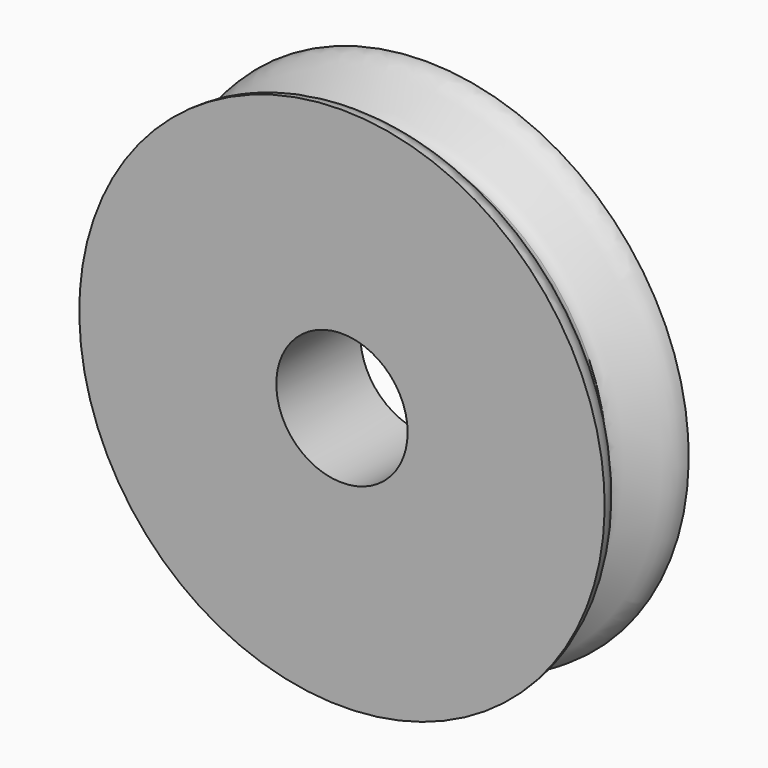
from build123d import *

# Parameters (mm, degrees)
F0_R     = 20
F0_R_2   = 5
F1_DEPTH = 4


with BuildPart() as f1:
    # F0 (on Front) → F1 (new body, symmetric)
    with BuildSketch(Plane.XZ):
        Circle(F0_R)
        Circle(F0_R_2, mode=Mode.SUBTRACT)
        Circle(F0_R)
        Circle(F0_R_2, mode=Mode.SUBTRACT)
    extrude(amount=F1_DEPTH, both=True)

    # F2 (on Right) → F3 (revolve, cut)
    with BuildSketch(Plane.YZ):
        with BuildLine():
            add(Edge.make_bspline(
                [(-4, 20), (-2.140614, 19.995337), (-1.366213, 17.046658), (0, 17)],
                knots=[0, 0, 0, 0, 5, 5, 5, 5], degree=3))
            Line((0, 17), (0, 20))
            Line((0, 20), (-4, 20))
        make_face()
        with BuildLine():
            Line((0, 20), (0, 17))
            add(Edge.make_bspline(
                [(4, 20), (2.140614, 19.995337), (1.366213, 17.046658), (0, 17)],
                knots=[0, 0, 0, 0, 5, 5, 5, 5], degree=3))
            Line((4, 20), (0, 20))
        make_face()
    revolve(axis=Axis((0, -7.756954, 0), (0, -1, 0)), mode=Mode.SUBTRACT)


solid = f1.part
